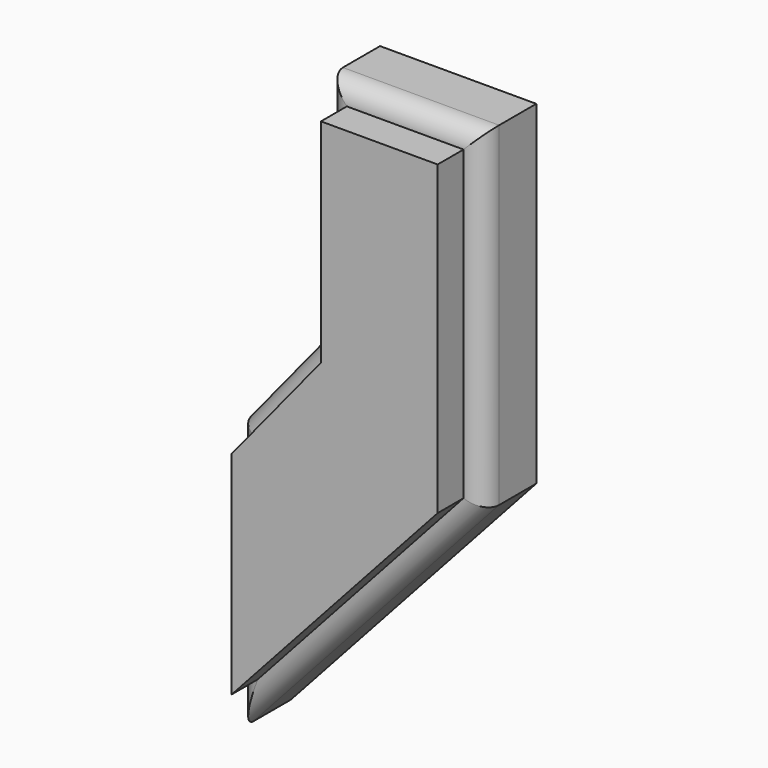
from build123d import *

# Parameters (mm, degrees)
F1_DEPTH = 4.253926
F2_R     = 2.54
F3_DEPTH = 4.16477


with BuildPart() as f1:
    # F0 (on Front) → F1 (new body, symmetric)
    with BuildSketch(Plane.XZ):
        Polygon((25.404785, 14.029387), (13.940861, 0), (13.940861, -34.714542), (45.487791, 0), (45.487791, 42.974394), (25.404785, 42.974394), align=None)
    extrude(amount=F1_DEPTH, both=True)

    # F2
    f2_edges = [f1.edges().sort_by_distance(p)[0] for p in [
        (19.672823, -4.253926, 7.014694),
        (13.940861, -4.253926, -17.357271),
        (29.714326, -4.253926, -17.357271),
        (45.487791, -4.253926, 21.487197),
        (35.446288, -4.253926, 42.974394),
        (25.404785, -4.253926, 28.501891),
    ]]
    fillet(f2_edges, radius=F2_R)

    # F1_face (on face) → F3 (join)
    with BuildSketch(Plane(origin=(31.070742, -4.253926, 8.875899), x_dir=(1, 0, 0), z_dir=(0, -1, 0))):
        Polygon((-3.125957, 4.247698), (-14.589881, -9.781689), (-14.589881, -37.01865), (11.87705, -7.894188), (11.87705, 31.558495), (-3.125957, 31.558495), align=None)
    extrude(amount=F3_DEPTH)


solid = f1.part
